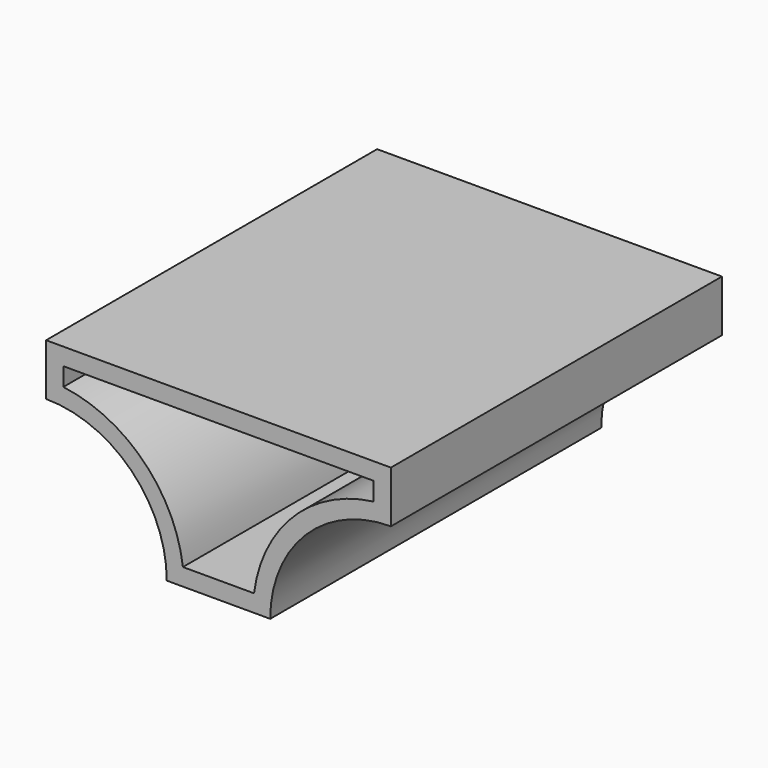
from build123d import *

# Parameters (mm, degrees)
F0_W     = 127
F0_H     = 63.5
F1_DEPTH = 76.2
F3_DEPTH = 152.4
F4_T     = -6.35


with BuildPart() as f1:
    # F0 (on Front) → F1 (new body, symmetric)
    with BuildSketch(Plane.XZ):
        Rectangle(F0_W, F0_H)
    extrude(amount=F1_DEPTH, both=True)

    # F2 (on face) → F3 (cut, through all)
    with BuildSketch(Plane.XZ.offset(76.2)):
        with BuildLine():
            Line((63.5, -31.75), (63.5, 12.7))
            ThreePointArc((63.5, 12.7), (32.069104, -0.319104), (19.05, -31.75))
            Line((19.05, -31.75), (63.5, -31.75))
        make_face()
        with BuildLine():
            ThreePointArc((-19.05, -31.75), (-32.069104, -0.319104), (-63.5, 12.7))
            Line((-63.5, 12.7), (-63.5, -31.75))
            Line((-63.5, -31.75), (-19.05, -31.75))
        make_face()
    extrude(amount=-F3_DEPTH, mode=Mode.SUBTRACT)

    # F4
    f4_openings = [f1.faces().sort_by_distance(p)[0] for p in [
        (0, -76.2, 8.06084),
    ]]
    offset(amount=F4_T, openings=f4_openings)


solid = f1.part
